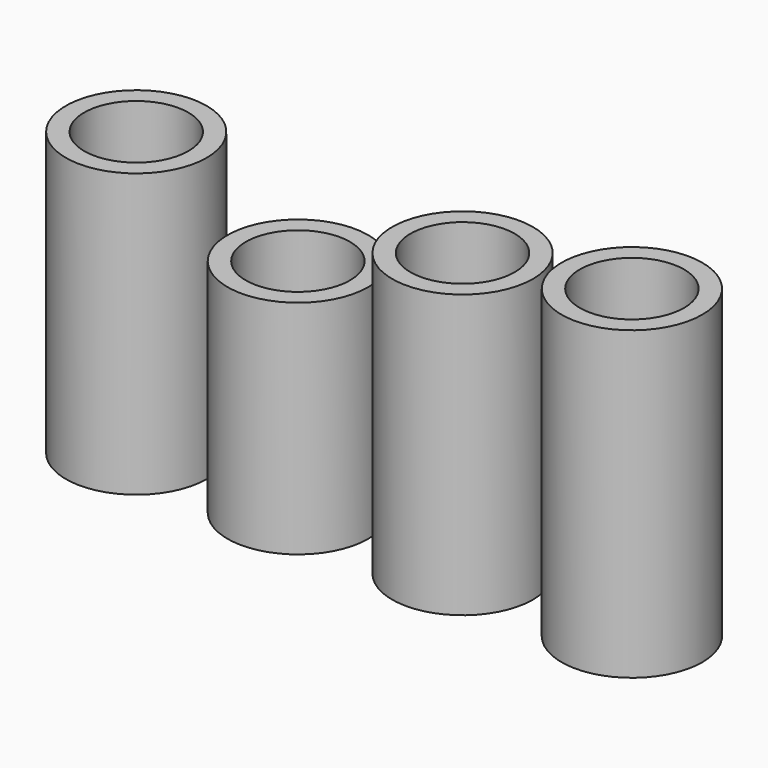
from build123d import *

# Parameters (mm, degrees)
F0_R     = 10.668
F0_R_2   = 7.8994
F1_DEPTH = 42.78
F2_R     = 10.668
F2_R_2   = 7.8994
F3_DEPTH = 33.58
F4_R     = 10.668
F4_R_2   = 7.8994
F5_DEPTH = 42.86
F6_R     = 10.668
F6_R_2   = 7.8994
F7_DEPTH = 46.36


with BuildPart() as f1:
    # F0 (on Top) → F1 (new body)
    with BuildSketch(Plane.XY):
        Circle(F0_R)
        Circle(F0_R_2, mode=Mode.SUBTRACT)
    extrude(amount=F1_DEPTH)


with BuildPart() as f3:
    # F2 (on Top) → F3 (new body)
    with BuildSketch(Plane.XY):
        with Locations((-24.949171, 0)):
            Circle(F2_R)
        with Locations((-24.949171, 0)):
            Circle(F2_R_2, mode=Mode.SUBTRACT)
    extrude(amount=F3_DEPTH)


with BuildPart() as f5:
    # F4 (on Top) → F5 (new body)
    with BuildSketch(Plane.XY):
        with Locations((-49.443699, 0)):
            Circle(F4_R)
        with Locations((-49.443699, 0)):
            Circle(F4_R_2, mode=Mode.SUBTRACT)
    extrude(amount=F5_DEPTH)


with BuildPart() as f7:
    # F6 (on Top) → F7 (new body)
    with BuildSketch(Plane.XY):
        with Locations((25.660496, 0)):
            Circle(F6_R)
        with Locations((25.660496, 0)):
            Circle(F6_R_2, mode=Mode.SUBTRACT)
    extrude(amount=F7_DEPTH)


solid = Compound([f1.part, f3.part, f5.part, f7.part])
